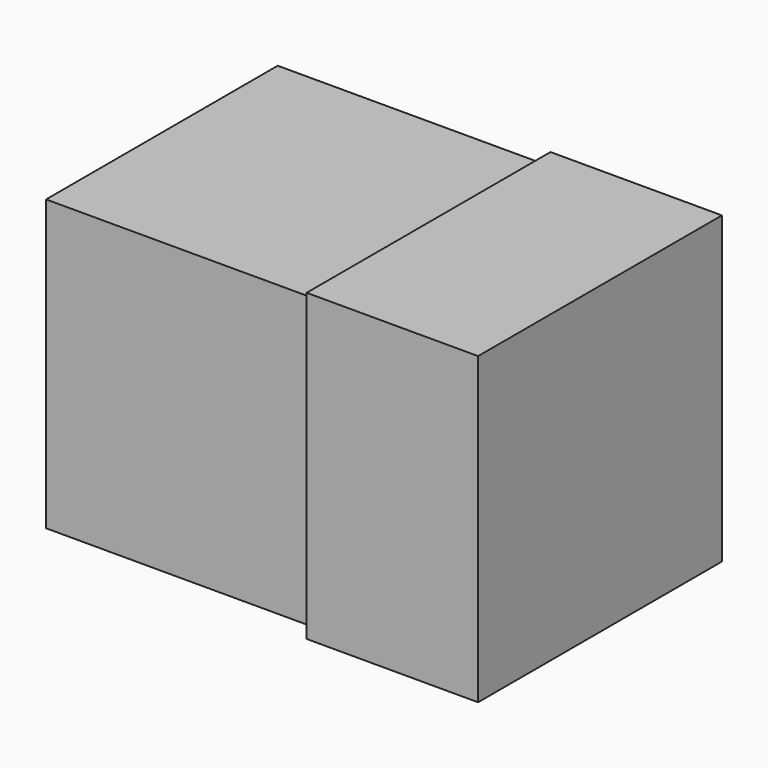
from build123d import *

# Parameters (mm, degrees)
SKETCH001_W  = 1.4
SKETCH001_H  = 1.52
PAD001_DEPTH = 0.76
SKETCH_W     = 0.9
SKETCH_H     = 1.6
PAD_DEPTH    = 0.8


with BuildPart() as capacitor_body:
    # Sketch001 → Pad001 (new body, symmetric)
    with BuildSketch(Plane.XZ):
        with Locations((0, 0.8)):
            Rectangle(SKETCH001_W, SKETCH001_H)
    extrude(amount=PAD001_DEPTH, both=True)


with BuildPart() as terminator_left:
    # Sketch → Pad (new body, symmetric)
    with BuildSketch(Plane.XZ):
        with Locations((-1.15, 0.8)):
            Rectangle(SKETCH_W, SKETCH_H)
    extrude(amount=PAD_DEPTH, both=True)


with BuildPart() as terminator_right:
    # mirror: instance of Terminator Left
    add(terminator_left.part.mirror(Plane(origin=(0, 0, 0), x_dir=(0, -1, 0), z_dir=(1, 0, 0))))


solid = Compound([capacitor_body.part, terminator_right.part])
